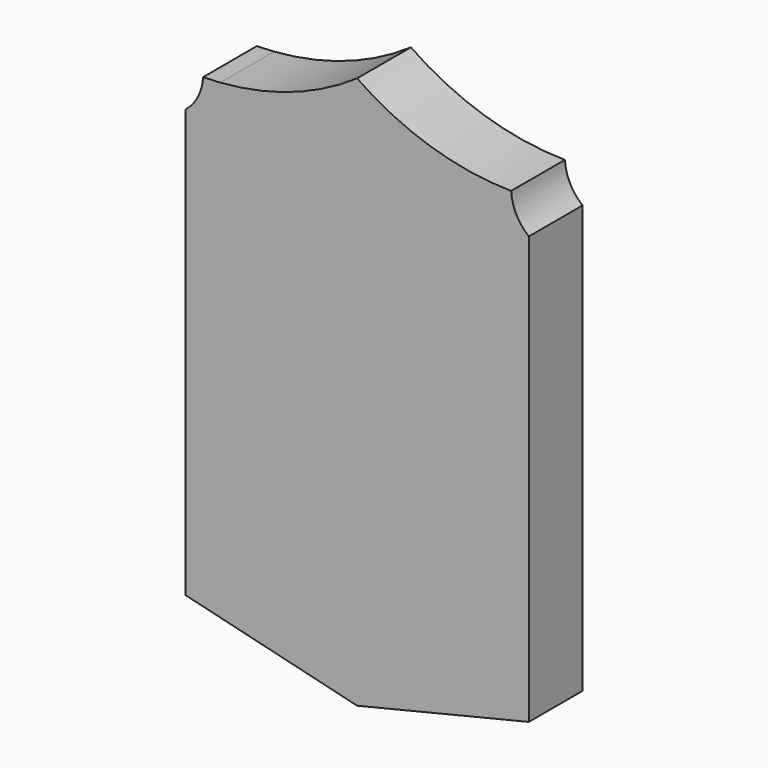
from build123d import *

# Parameters (mm, degrees)
F1_DEPTH = 127


with BuildPart() as f1:
    # F0 (on Front) → F1 (new body)
    with BuildSketch(Plane.XZ):
        with BuildLine():
            ThreePointArc((-291.010082, 463.264512), (-300.765172, 427.256213), (-324.435599, 398.420986))
            Line((-324.435599, 398.420986), (-324.435599, -409.124345))
            Line((-324.435599, -409.124345), (0, -487.664163))
            Line((0, -487.664163), (324.435599, -409.124345))
            Line((324.435599, -409.124345), (324.435599, 398.420986))
            ThreePointArc((324.435599, 398.420986), (300.765172, 427.256213), (291.010082, 463.264512))
            ThreePointArc((291.010082, 463.264512), (138.622268, 487.883592), (0, 555.795384))
            ThreePointArc((0, 555.795384), (-123.231042, 493.041018), (-258.579904, 464.674032))
            Line((-258.579904, 464.674032), (-291.010082, 463.264512))
        make_face()
    extrude(amount=F1_DEPTH)


solid = f1.part
